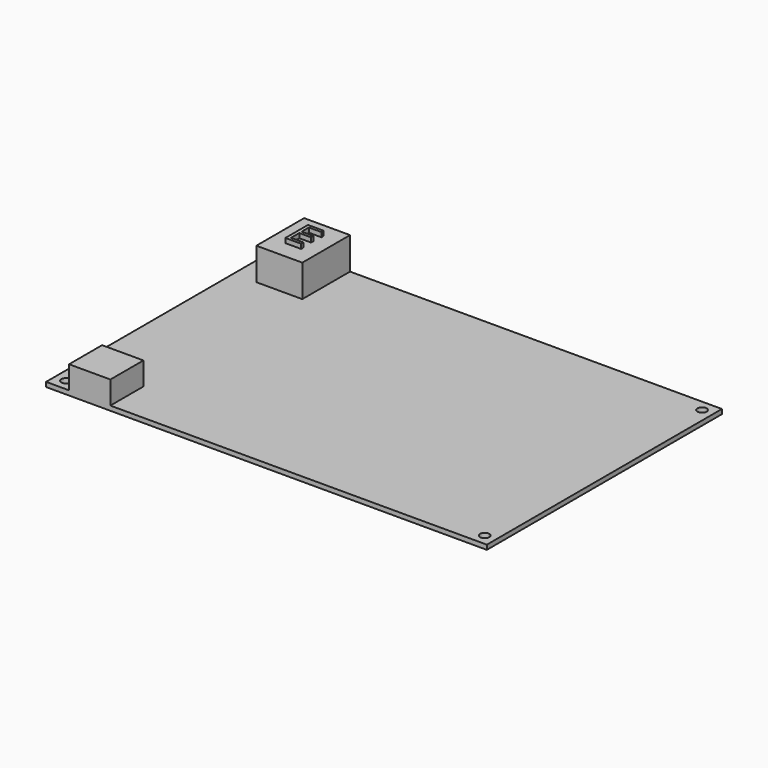
from build123d import *

# Parameters (mm, degrees)
F0_W     = 152.4
F0_H     = 101.6
F0_R     = 1.5875
F1_DEPTH = 1.5875
F2_W     = 15.875
F2_H     = 20.6375
F3_DEPTH = 12.7
F4_W     = 14.2875
F4_H     = 14.288262
F5_DEPTH = 7.9375
F6_W     = 15.875
F6_H     = 20.6375
F7_DEPTH = 1.5875


with BuildPart() as f1:
    # F0 (on Top) → F1 (new body)
    with BuildSketch(Plane.XY):
        with Locations((76.2, 50.8)):
            Rectangle(F0_W, F0_H)
        with Locations((3.8099971771, 3.8099971771)):
            Circle(F0_R, mode=Mode.SUBTRACT)
        with Locations((148.5900028229, 3.8099971771)):
            Circle(F0_R, mode=Mode.SUBTRACT)
        with Locations((3.8099971771, 97.7900028229)):
            Circle(F0_R, mode=Mode.SUBTRACT)
        with Locations((148.5900028229, 97.7900028229)):
            Circle(F0_R, mode=Mode.SUBTRACT)
    extrude(amount=F1_DEPTH)

    # F2 (on face) → F3 (join)
    with BuildSketch(Plane.XY.offset(1.5875)):
        with Locations((15.875, 91.28125)):
            Rectangle(F2_W, F2_H)
    extrude(amount=F3_DEPTH)

    # F4 (on face) → F5 (join)
    with BuildSketch(Plane.XY.offset(1.5875)):
        with Locations((15.08125, 7.144131)):
            Rectangle(F4_W, F4_H)
    extrude(amount=F5_DEPTH)

    # F6 (on face) → F7 (cut)
    with BuildSketch(Plane.XY.offset(14.2875)):
        with Locations((15.875, 91.28125)):
            Rectangle(F6_W, F6_H)
        Polygon((18.5745110599, 88.026480759), (18.5745110599, 87.0124623179), (13.1372374405, 87.0124623179), (13.1372374405, 96.7662523326), (18.5745110599, 96.7662523326), (18.5745110599, 95.7586382186), (14.2708033187, 95.7586382186), (14.2708033187, 92.6162484393), (18.3140684288, 92.6162484393), (18.3140684288, 91.6150386523), (14.2708033187, 91.6150386523), (14.2708033187, 88.026480759), align=None, mode=Mode.SUBTRACT)
    extrude(amount=-F7_DEPTH, mode=Mode.SUBTRACT)


solid = f1.part
